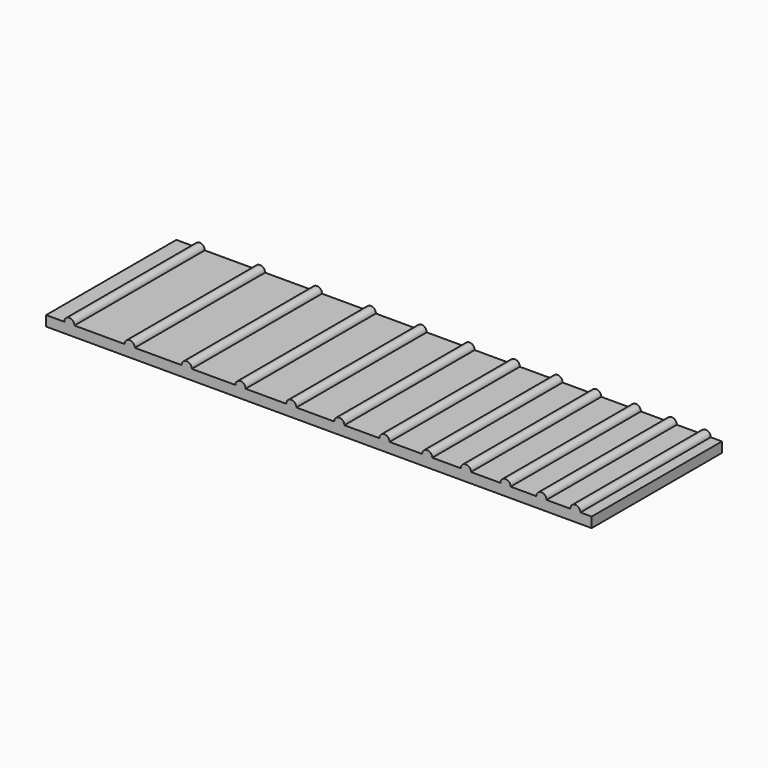
from build123d import *

# Parameters (mm, degrees)
F1_DEPTH = 50.8


with BuildPart() as f1:
    # F0 (on Front) → F1 (new body)
    with BuildSketch(Plane.XZ):
        with BuildLine():
            Line((12.7, 3.175), (12.7, 0))
            Line((12.7, 0), (182.88, 0))
            Line((182.88, 0), (182.88, 3.175))
            Line((182.88, 3.175), (179.3875, 3.175))
            ThreePointArc((179.3875, 3.175), (177.8, 4.7625), (176.2125, 3.175))
            Line((176.2125, 3.175), (168.8211, 3.175))
            ThreePointArc((168.8211, 3.175), (167.2336, 4.7625), (165.6461, 3.175))
            Line((165.6461, 3.175), (157.6197, 3.175))
            ThreePointArc((157.6197, 3.175), (156.0322, 4.7625), (154.4447, 3.175))
            Line((154.4447, 3.175), (145.2499, 3.175))
            ThreePointArc((145.2499, 3.175), (143.6624, 4.7625), (142.0749, 3.175))
            Line((142.0749, 3.175), (133.1849, 3.175))
            ThreePointArc((133.1849, 3.175), (131.5974, 4.7625), (130.0099, 3.175))
            Line((130.0099, 3.175), (119.8499, 3.175))
            ThreePointArc((119.8499, 3.175), (118.2624, 4.7625), (116.6749, 3.175))
            Line((116.6749, 3.175), (105.7529, 3.175))
            ThreePointArc((105.7529, 3.175), (104.1654, 4.7625), (102.5779, 3.175))
            Line((102.5779, 3.175), (90.7923, 3.175))
            ThreePointArc((90.7923, 3.175), (89.2048, 4.7625), (87.6173, 3.175))
            Line((87.6173, 3.175), (74.9427, 3.175))
            ThreePointArc((74.9427, 3.175), (73.3552, 4.7625), (71.7677, 3.175))
            Line((71.7677, 3.175), (58.1533, 3.175))
            ThreePointArc((58.1533, 3.175), (56.5658, 4.7625), (54.9783, 3.175))
            Line((54.9783, 3.175), (40.3733, 3.175))
            ThreePointArc((40.3733, 3.175), (38.7858, 4.7625), (37.1983, 3.175))
            Line((37.1983, 3.175), (21.5519, 3.175))
            ThreePointArc((21.5519, 3.175), (19.9644, 4.7625), (18.3769, 3.175))
            Line((18.3769, 3.175), (12.7, 3.175))
        make_face()
    extrude(amount=F1_DEPTH)


solid = f1.part
